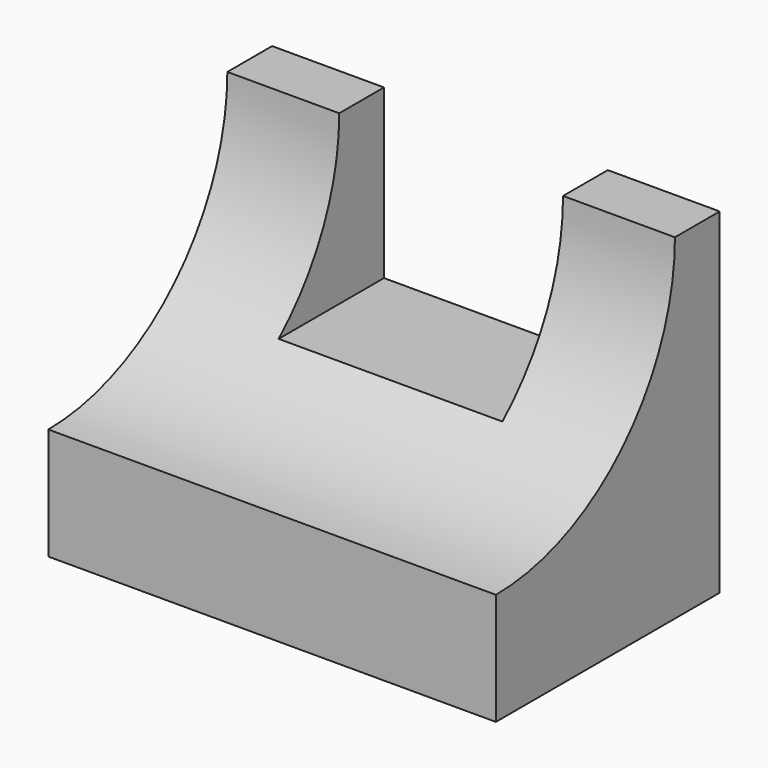
from build123d import *

# Parameters (mm, degrees)
F0_W      = 101.6
F0_H      = 76.2
F1_DEPTH  = 63.5
F2_W      = 50.8
F2_H      = 12.7
F3_DEPTH  = 38.1
F5_DEPTH  = 101.601
F3_FACE_W = 50.8
F3_FACE_H = 38.1
F6_DEPTH  = 25.4


with BuildPart() as f1:
    # F0 (on Front) → F1 (new body)
    with BuildSketch(Plane.XZ):
        with Locations((1.198633, -10.636772)):
            Rectangle(F0_W, F0_H)
    extrude(amount=F1_DEPTH)

    # F2 (on face) → F3 (cut)
    with BuildSketch(Plane.XY.offset(27.463228)):
        with Locations((1.198633, -6.35)):
            Rectangle(F2_W, F2_H)
    extrude(amount=-F3_DEPTH, mode=Mode.SUBTRACT)

    # F4 (on face) → F5 (cut, through all)
    with BuildSketch(Plane(origin=(-49.601367, 0, 0), x_dir=(0, -1, 0), z_dir=(-1, 0, 0))):
        with BuildLine():
            Line((63.5, 27.463228), (12.7, 27.463228))
            ThreePointArc((12.7, 27.463228), (27.578976, -8.457797), (63.5, -23.336772))
            Line((63.5, -23.336772), (63.5, 27.463228))
        make_face()
    extrude(amount=-F5_DEPTH, mode=Mode.SUBTRACT)

    # F3_face (on face) → F6 (cut)
    with BuildSketch(Plane(origin=(1.198633, -12.7, 8.413228), x_dir=(-1, 0, 0), z_dir=(0, 1, 0))):
        Rectangle(F3_FACE_W, F3_FACE_H)
    extrude(amount=-F6_DEPTH, mode=Mode.SUBTRACT)


solid = f1.part
